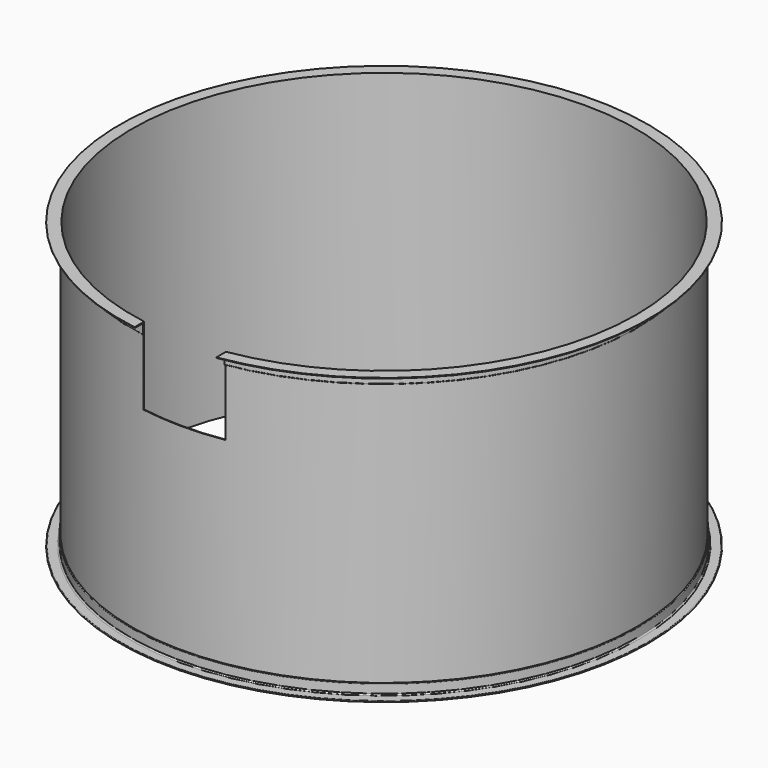
from build123d import *

# Parameters (mm, degrees)
SKETCH001_W   = 550
SKETCH001_H   = 520
EXTRUDE_DEPTH = 2500
SKETCH_W      = 5
SKETCH_H      = 1920


with BuildPart() as extrude_body:
    # Sketch001 → Extrude (new body)
    with BuildSketch(Plane.XZ):
        with Locations((0, 1660)):
            Rectangle(SKETCH001_W, SKETCH001_H)
    extrude(amount=EXTRUDE_DEPTH)


with BuildPart() as revolve001:
    # AngleSteel → Revolve001 (revolve)
    with BuildSketch(Plane(origin=(1720.58985, 0, 20.58985), x_dir=(1, 0, 0), z_dir=(0, 1, 0))):
        with BuildLine():
            Line((-20.58985, 20.58985), (-20.58985, -54.41015))
            Line((-20.58985, -54.41015), (-18.58985, -54.41015))
            ThreePointArc((-18.58985, -54.41015), (-15.761423, -53.238577), (-14.58985, -50.41015))
            Line((-14.58985, -50.41015), (-14.58985, 6.08985))
            ThreePointArc((-14.58985, 6.08985), (-12.100258, 12.100258), (-6.08985, 14.58985))
            Line((-6.08985, 14.58985), (50.41015, 14.58985))
            ThreePointArc((50.41015, 14.58985), (53.238577, 15.761423), (54.41015, 18.58985))
            Line((54.41015, 18.58985), (54.41015, 20.58985))
            Line((54.41015, 20.58985), (-20.58985, 20.58985))
        make_face()
    revolve(axis=Axis((0, 0, 0), (0, 0, 1)))


with BuildPart() as revolve002:
    # AngleSteel001 → Revolve002 (revolve)
    with BuildSketch(Plane(origin=(1720.58985, 0, 1899.41015), x_dir=(1, 0, 0), z_dir=(0, 1, 0))):
        with BuildLine():
            Line((-20.58985, -20.58985), (54.41015, -20.58985))
            Line((54.41015, -20.58985), (54.41015, -18.58985))
            ThreePointArc((54.41015, -18.58985), (53.238577, -15.761423), (50.41015, -14.58985))
            Line((50.41015, -14.58985), (-6.08985, -14.58985))
            ThreePointArc((-6.08985, -14.58985), (-12.100258, -12.100258), (-14.58985, -6.08985))
            Line((-14.58985, -6.08985), (-14.58985, 50.41015))
            ThreePointArc((-14.58985, 50.41015), (-15.761423, 53.238577), (-18.58985, 54.41015))
            Line((-18.58985, 54.41015), (-20.58985, 54.41015))
            Line((-20.58985, 54.41015), (-20.58985, -20.58985))
        make_face()
    revolve(axis=Axis((0, 0, 0), (0, 0, 1)))


with BuildPart() as cut:
    # Sketch → Revolve (revolve)
    with BuildSketch(Plane.XZ):
        with Locations((1697.5, 960)):
            Rectangle(SKETCH_W, SKETCH_H)
    revolve(axis=Axis((0, 0, 0), (0, 0, 1)))

    # Fusion: union Revolve001, Revolve002
    add(revolve001.part)
    add(revolve002.part)

    # Cut: cut Extrude body
    add(extrude_body.part, mode=Mode.SUBTRACT)


solid = cut.part
